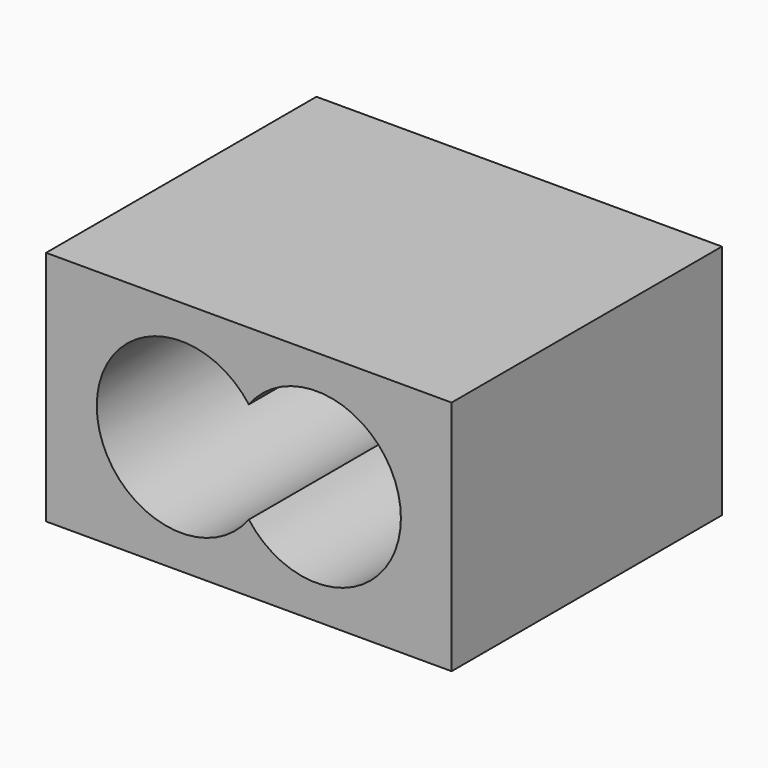
from build123d import *

# Parameters (mm, degrees)
F0_W     = 304.8
F0_H     = 177.8
F1_DEPTH = 254


with BuildPart() as f1:
    # F0 (on Front) → F1 (new body)
    with BuildSketch(Plane.XZ):
        with Locations((152.4, 88.9)):
            Rectangle(F0_W, F0_H)
        with BuildLine():
            ThreePointArc((152.4, 50.8), (38.1, 88.9), (152.4, 127))
            ThreePointArc((152.4, 127), (223.280463, 149.141389), (266.7, 88.9))
            ThreePointArc((266.7, 88.9), (223.280463, 28.658611), (152.4, 50.8))
        make_face(mode=Mode.SUBTRACT)
    extrude(amount=F1_DEPTH)


solid = f1.part
